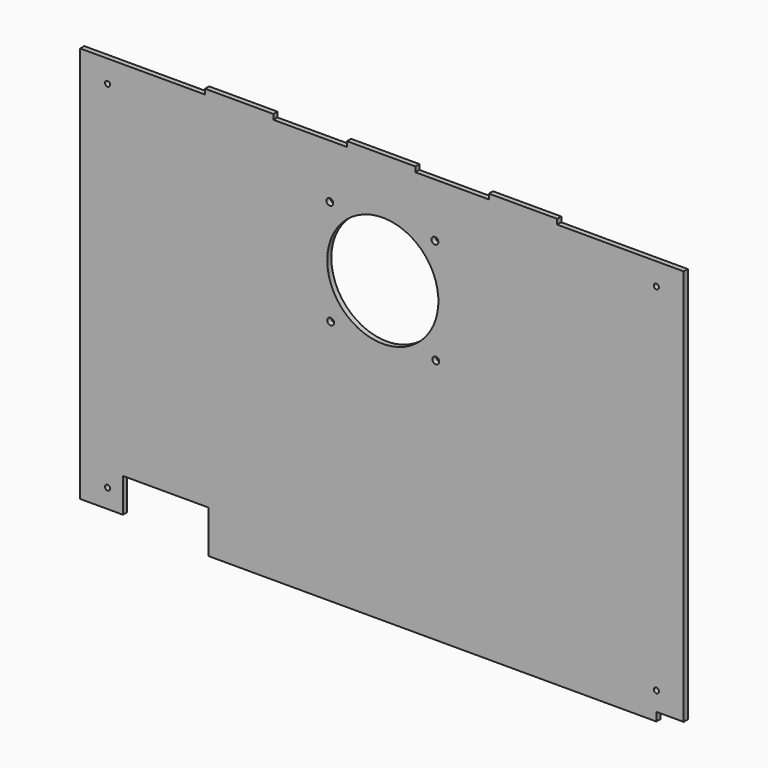
from build123d import *

# Parameters (mm, degrees)
F0_R     = 1.5
F1_DEPTH = 3
F2_R     = 32.5
F3_DEPTH = 3
F5_R     = 2
F6_DEPTH = 3


with BuildPart() as f1:
    # F0 (on Front) → F1 (new body)
    with BuildSketch(Plane.XZ):
        Polygon((102, 117), (102, 120), (62, 120), (62, 117), (19, 117), (19, 120), (-21, 120), (-21, 117), (-64, 117), (-64, 120), (-104, 120), (-104, 117), (-177, 117), (-177, -115), (-152, -115), (-152, -95), (-102, -95), (-102, -120), (160, -120), (160, -115), (176, -115), (176, 117), align=None)
        with Locations((-161, -104)):
            Circle(F0_R, mode=Mode.SUBTRACT)
        with Locations((160, -104)):
            Circle(F0_R, mode=Mode.SUBTRACT)
        with Locations((-161, 104)):
            Circle(F0_R, mode=Mode.SUBTRACT)
        with Locations((160, 104)):
            Circle(F0_R, mode=Mode.SUBTRACT)
    extrude(amount=F1_DEPTH)

    # F2 (on face) → F3 (cut)
    with BuildSketch(Plane(origin=(0, 0, 0), x_dir=(-1, 0, 0), z_dir=(0, 1, 0))):
        with Locations((0, 54.959509)):
            Circle(F2_R)
    extrude(amount=-F3_DEPTH, mode=Mode.SUBTRACT)

    # F5 (on face) → F6 (cut)
    with BuildSketch(Plane(origin=(0, 0, 0), x_dir=(-1, 0, 0), z_dir=(0, 1, 0))):
        with Locations((-30.492457, 85.465)):
            Circle(F5_R)
        with Locations((31.007543, 85.464843)):
            Circle(F5_R)
        with Locations((30.500002, 23.964843)):
            Circle(F5_R)
        with Locations((-30.999998, 23.965)):
            Circle(F5_R)
    extrude(amount=-F6_DEPTH, mode=Mode.SUBTRACT)


solid = f1.part
